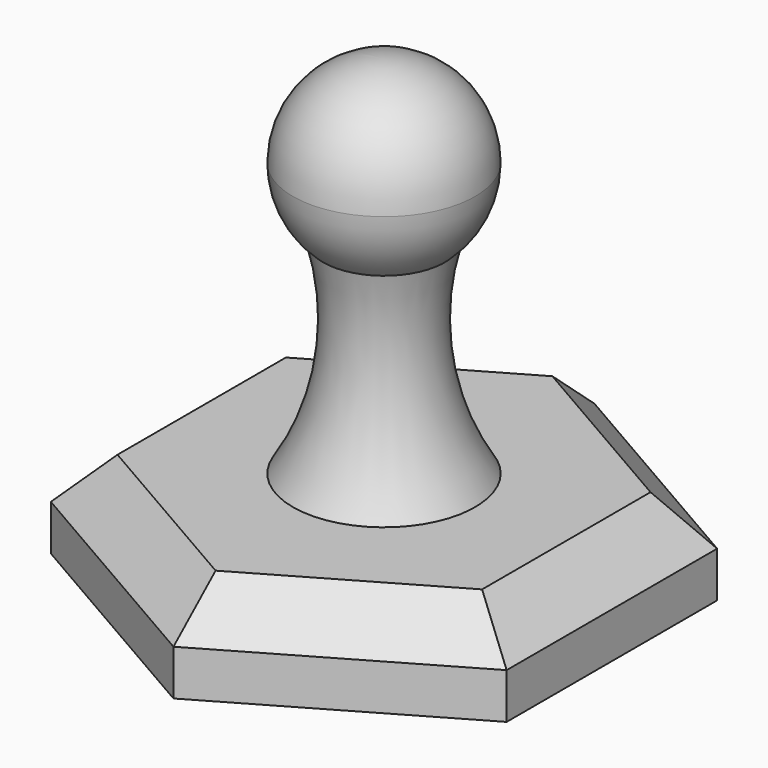
from build123d import *

# Parameters (mm, degrees)
F1_DEPTH = 10
F4_SIZE  = 5


with BuildPart() as f1:
    # F0 (on Top) → F1 (new body)
    with BuildSketch(Plane.XY):
        Polygon((-25, 14.4337567297), (-25, -14.4337567297), (0, -28.8675134595), (25, -14.4337567297), (25, 14.4337567297), (0, 28.8675134595), align=None)
    extrude(amount=F1_DEPTH)

    # F2 (on Front) → F3 (revolve)
    with BuildSketch(Plane.XZ):
        with BuildLine():
            Line((0, 10), (0, 30))
            ThreePointArc((0, 30), (-3.5846514013, 30.6645688728), (-6.6928532543, 32.5699451337))
            ThreePointArc((-6.6928532543, 32.5699451337), (-5.9483456169, 20.9335846587), (-10, 10))
            Line((-10, 10), (0, 10))
        make_face()
        with BuildLine():
            Line((0, 30), (0, 50))
            ThreePointArc((0, 50), (-7.0710678119, 47.0710678119), (-10, 40))
            ThreePointArc((-10, 40), (-8.0756928824, 36.4054772252), (-6.6928532543, 32.5699451337))
            ThreePointArc((-6.6928532543, 32.5699451337), (-3.5846514013, 30.6645688728), (0, 30))
        make_face()
        with BuildLine():
            ThreePointArc((-6.6928532543, 32.5699451337), (-8.0756928824, 36.4054772252), (-10, 40))
            ThreePointArc((-10, 40), (-9.1358779694, 35.9335846587), (-6.6928532543, 32.5699451337))
        make_face()
    revolve(axis=Axis((0, 0, 30), (0, 0, 1)))

    # F4
    f4_edges = [f1.edges().sort_by_distance(p)[0] for p in [
        (-25, 0, 10),
        (-12.5, -21.650635, 10),
        (-12.5, 21.650635, 10),
        (12.5, 21.650635, 10),
        (25, 0, 10),
        (12.5, -21.650635, 10),
    ]]
    chamfer(f4_edges, length=F4_SIZE)


solid = f1.part
